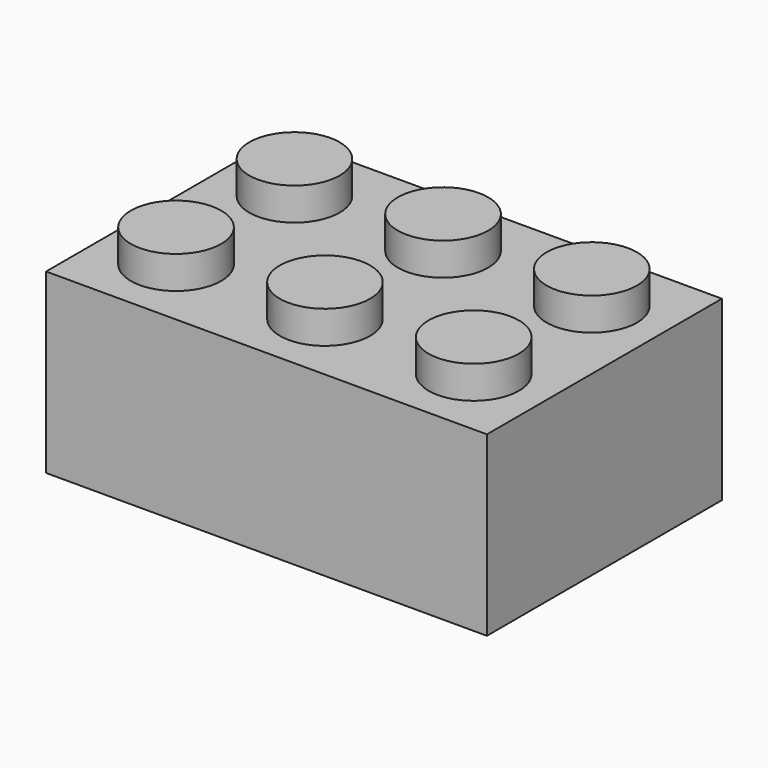
from build123d import *

# Parameters (mm, degrees)
F0_W     = 23.6728
F0_H     = 15.7734
F1_DEPTH = 4.7625
F2_R     = 2.4257
F3_DEPTH = 1.7526
F4_W     = 20.6248
F4_H     = 13.2334
F7_DEPTH = 8.3058
F5_R     = 3.2258
F8_DEPTH = 8.3058
F6_R     = 2.3876
F9_DEPTH = 8.3058


with BuildPart() as f1:
    # F0 (on Top) → F1 (new body, symmetric)
    with BuildSketch(Plane.XY):
        Rectangle(F0_W, F0_H)
    extrude(amount=F1_DEPTH, both=True)

    # F2 (on face) → F3 (join)
    with BuildSketch(Plane.XY.offset(4.7625)):
        with Locations((-7.9883, 3.9751)):
            Circle(F2_R)
        with Locations((0, 3.9624)):
            Circle(F2_R)
        with Locations((7.9883, 3.9624)):
            Circle(F2_R)
        with Locations((7.9883, -3.9624)):
            Circle(F2_R)
        with Locations((0, -3.9624)):
            Circle(F2_R)
        with Locations((-7.9883, -3.9751)):
            Circle(F2_R)
    extrude(amount=F3_DEPTH)

    # F4 (on face) → F7 (cut)
    with BuildSketch(Plane(origin=(0, 0, -4.7625), x_dir=(1, 0, 0), z_dir=(0, 0, -1))):
        Rectangle(F4_W, F4_H)
    extrude(amount=-F7_DEPTH, mode=Mode.SUBTRACT)

    # F5 (on face) → F8 (join)
    with BuildSketch(Plane(origin=(0, 0, -4.7625), x_dir=(1, 0, 0), z_dir=(0, 0, -1))):
        with Locations((-3.5306, 0)):
            Circle(F5_R)
        with Locations((3.5306, 0)):
            Circle(F5_R)
    extrude(amount=-F8_DEPTH)

    # F6 (on face) → F9 (cut)
    with BuildSketch(Plane(origin=(0, 0, -4.7625), x_dir=(1, 0, 0), z_dir=(0, 0, -1))):
        with Locations((-3.5306, 0)):
            Circle(F6_R)
        with Locations((3.5306, 0)):
            Circle(F6_R)
    extrude(amount=-F9_DEPTH, mode=Mode.SUBTRACT)


solid = f1.part
